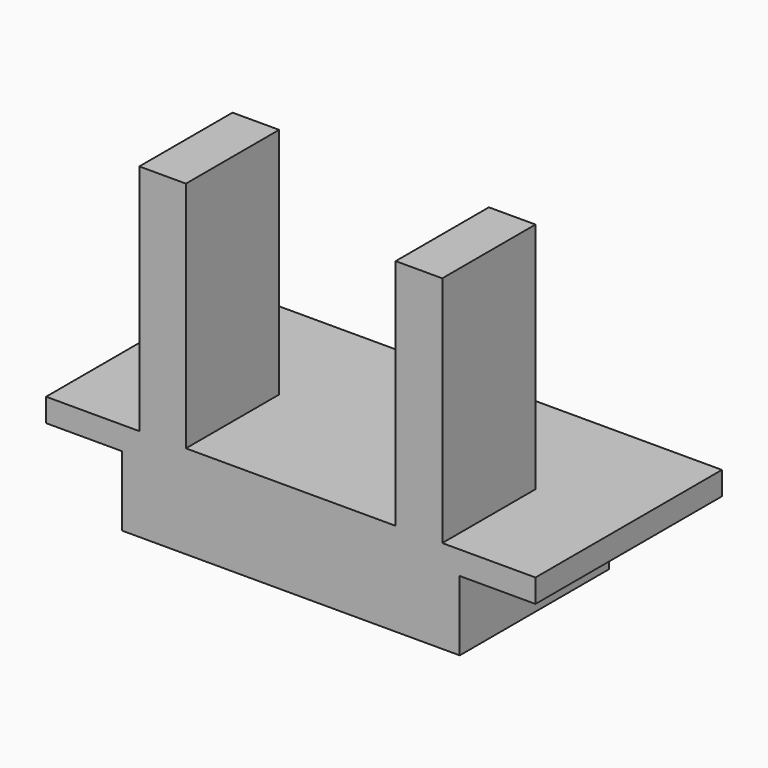
from build123d import *

# Parameters (mm, degrees)
SKETCH124_W             = 14.5
SKETCH124_H             = 8
PAD065_DEPTH            = 3
SKETCH125_W             = 21
SKETCH125_H             = 10
PAD066_DEPTH            = 1
SKETCH126_W             = 2
SKETCH126_H             = 5
PAD067_DEPTH            = 10
BODY024_PLACEMENT_ANGLE = 180


with BuildPart() as part:
    # Sketch124 → Pad065 (new body)
    with BuildSketch(Plane.XY):
        Rectangle(SKETCH124_W, SKETCH124_H)
    extrude(amount=PAD065_DEPTH)

    # Sketch125 → Pad066 (join)
    with BuildSketch(Plane.XY):
        with Locations((0, -1)):
            Rectangle(SKETCH125_W, SKETCH125_H)
    extrude(amount=-PAD066_DEPTH)

    # Sketch126 → Pad067 (join)
    with BuildSketch(Plane(origin=(0, 0, -1), x_dir=(1, 0, 0), z_dir=(0, 0, -1))):
        with Locations((-5.5, -1.5)):
            Rectangle(SKETCH126_W, SKETCH126_H)
        with Locations((5.5, -1.5)):
            Rectangle(SKETCH126_W, SKETCH126_H)
    extrude(amount=PAD067_DEPTH)


with BuildPart() as part_1:
    # Body024 placement: moved
    add(part.part.moved(Location((3, -13, -19.7))).rotate(Axis((3, -13, -19.7), (1, 0, 0)), BODY024_PLACEMENT_ANGLE))


solid = part_1.part
